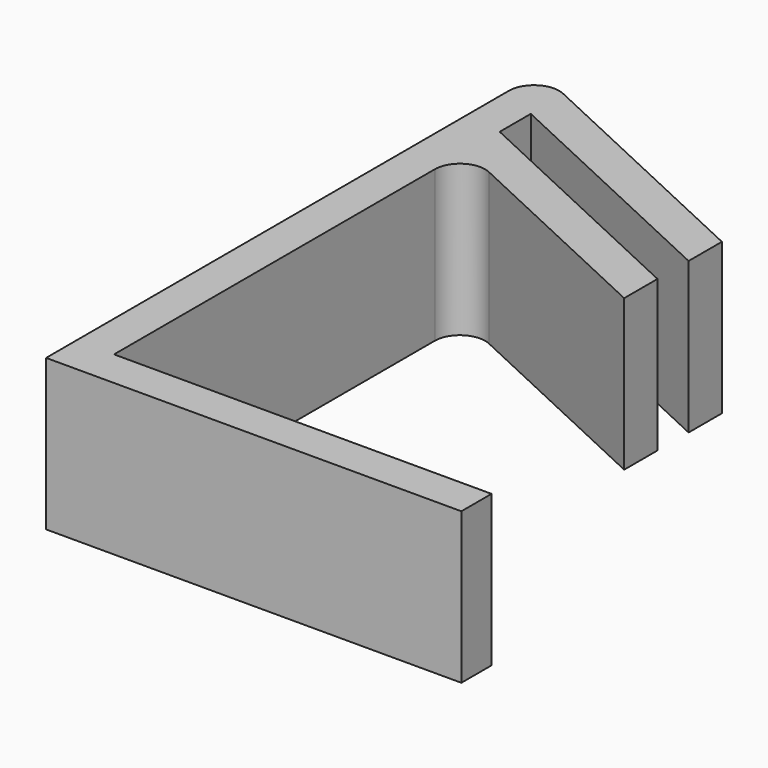
from build123d import *

# Parameters (mm, degrees)
F0_W     = 10
F0_H     = 3
F2_DEPTH = 12


with BuildPart() as f2:
    # F0 (on Top) → F2 (new body)
    with BuildSketch(Plane.XY):
        with Locations((5, -1.5)):
            Rectangle(F0_W, F0_H)
        with BuildLine():
            Line((0, -3), (0, 0))
            Line((0, 0), (-20, 0))
            Line((-20, 0), (-20, 31.8606288458))
            ThreePointArc((-20, 31.8606288458), (-19.0745992167, 33.5474117374), (-17.1547634765, 33.6732444198))
            Line((-17.1547634765, 33.6732444198), (0, 25.6738468369))
            Line((0, 25.6738468369), (0, 28.9839805938))
            Line((0, 28.9839805938), (-20, 38.3101337569))
            Line((-20, 38.3101337569), (-23, 39.7090567314))
            Line((-23, 39.7090567314), (-23, -3))
            Line((-23, -3), (0, -3))
        make_face()
        with BuildLine():
            Line((-23, 39.7090567314), (-20, 38.3101337569))
            Line((-20, 38.3101337569), (-20, 41.39959193))
            Line((-20, 41.39959193), (0, 32.0734387669))
            Line((0, 32.0734387669), (0, 35.3835725238))
            Line((0, 35.3835725238), (-18.7321452148, 44.1185152911))
            Line((-18.7321452148, 44.1185152911), (-20.1547634765, 44.7818930812))
            ThreePointArc((-20.1547634765, 44.7818930812), (-22.0745992167, 44.6560603987), (-23, 42.9692775071))
            Line((-23, 42.9692775071), (-23, 39.7090567314))
        make_face()
    extrude(amount=F2_DEPTH)


solid = f2.part
